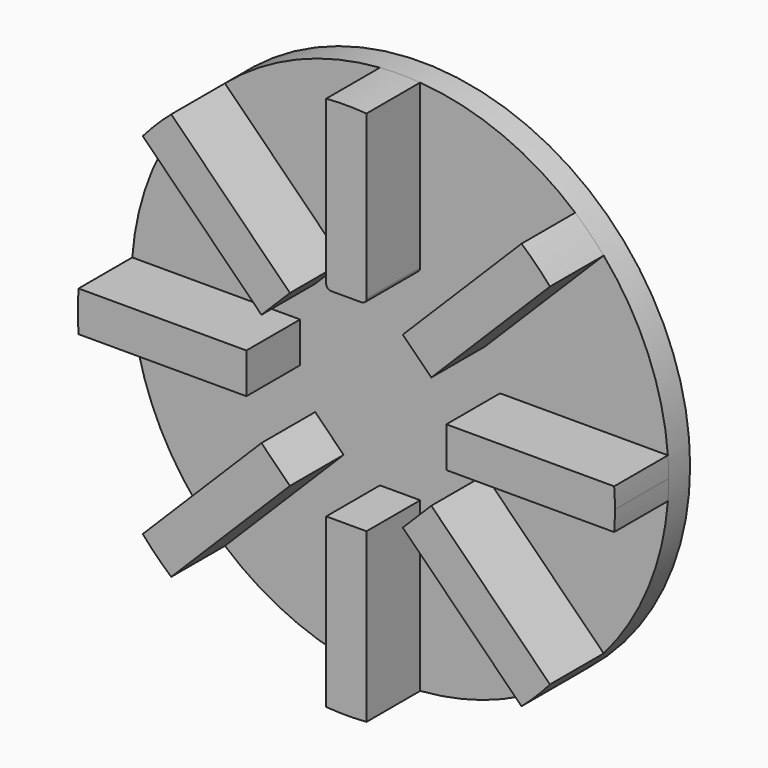
from build123d import *

# Parameters (mm, degrees)
F0_R     = 20
F1_DEPTH = 2
F3_DEPTH = 5
F4_R     = 2.5
F5_DEPTH = 5


with BuildPart() as f1:
    # F0 (on Front) → F1 (new body)
    with BuildSketch(Plane.XZ):
        Circle(F0_R)
    extrude(amount=F1_DEPTH)

    # F2 (on face) → F3 (join)
    with BuildSketch(Plane.XZ.offset(2)):
        with BuildLine():
            Line((-4.20281, 6.32413), (-13.041645, 15.162965))
            ThreePointArc((-13.041645, 15.162965), (-14.142136, 14.142136), (-15.162965, 13.041645))
            Line((-15.162965, 13.041645), (-6.32413, 4.20281))
            Line((-6.32413, 4.20281), (-5.26347, 5.26347))
            Line((-5.26347, 5.26347), (-4.20281, 6.32413))
        make_face()
        with BuildLine():
            Line((-7.443671, 1.5), (-19.943671, 1.5))
            ThreePointArc((-19.943671, 1.5), (-20, 0), (-19.943671, -1.5))
            Line((-19.943671, -1.5), (-7.443671, -1.5))
            Line((-7.443671, -1.5), (-7.443671, 0))
            Line((-7.443671, 0), (-7.443671, 1.5))
        make_face()
        with BuildLine():
            Line((-6.32413, -4.20281), (-15.162965, -13.041645))
            ThreePointArc((-15.162965, -13.041645), (-14.142136, -14.142136), (-13.041645, -15.162965))
            Line((-13.041645, -15.162965), (-4.20281, -6.32413))
            Line((-4.20281, -6.32413), (-5.26347, -5.26347))
            Line((-5.26347, -5.26347), (-6.32413, -4.20281))
        make_face()
        with BuildLine():
            Line((-1.5, -7.443671), (-1.5, -19.943671))
            ThreePointArc((-1.5, -19.943671), (0, -20), (1.5, -19.943671))
            Line((1.5, -19.943671), (1.5, -7.443671))
            Line((1.5, -7.443671), (0, -7.443671))
            Line((0, -7.443671), (-1.5, -7.443671))
        make_face()
        with BuildLine():
            ThreePointArc((-1.5, 7.805948), (-1.393892, 7.549779), (-1.137723, 7.443671))
            Line((-1.137723, 7.443671), (0, 7.443671))
            Line((0, 7.443671), (1.137723, 7.443671))
            ThreePointArc((1.137723, 7.443671), (1.393892, 7.549779), (1.5, 7.805948))
            Line((1.5, 7.805948), (1.5, 19.943671))
            ThreePointArc((1.5, 19.943671), (0, 20), (-1.5, 19.943671))
            Line((-1.5, 19.943671), (-1.5, 7.805948))
        make_face()
        with BuildLine():
            ThreePointArc((15.162965, 13.041645), (14.142136, 14.142136), (13.041645, 15.162965))
            Line((13.041645, 15.162965), (4.20281, 6.32413))
            Line((4.20281, 6.32413), (5.26347, 5.26347))
            Line((5.26347, 5.26347), (6.32413, 4.20281))
            Line((6.32413, 4.20281), (15.162965, 13.041645))
        make_face()
        with BuildLine():
            ThreePointArc((20, 0), (19.985913, 0.750529), (19.943671, 1.5))
            Line((19.943671, 1.5), (7.443671, 1.5))
            Line((7.443671, 1.5), (7.443671, 0))
            Line((7.443671, 0), (7.443671, -1.5))
            Line((7.443671, -1.5), (19.943671, -1.5))
            ThreePointArc((19.943671, -1.5), (19.985913, -0.750529), (20, 0))
        make_face()
        with BuildLine():
            ThreePointArc((13.041645, -15.162965), (14.142136, -14.142136), (15.162965, -13.041645))
            Line((15.162965, -13.041645), (6.32413, -4.20281))
            Line((6.32413, -4.20281), (5.26347, -5.26347))
            Line((5.26347, -5.26347), (4.20281, -6.32413))
            Line((4.20281, -6.32413), (13.041645, -15.162965))
        make_face()
    extrude(amount=F3_DEPTH)

    # F4 (on face) → F5 (join)
    with BuildSketch(Plane.XZ):
        Circle(F4_R)
    extrude(amount=-F5_DEPTH)


solid = f1.part
